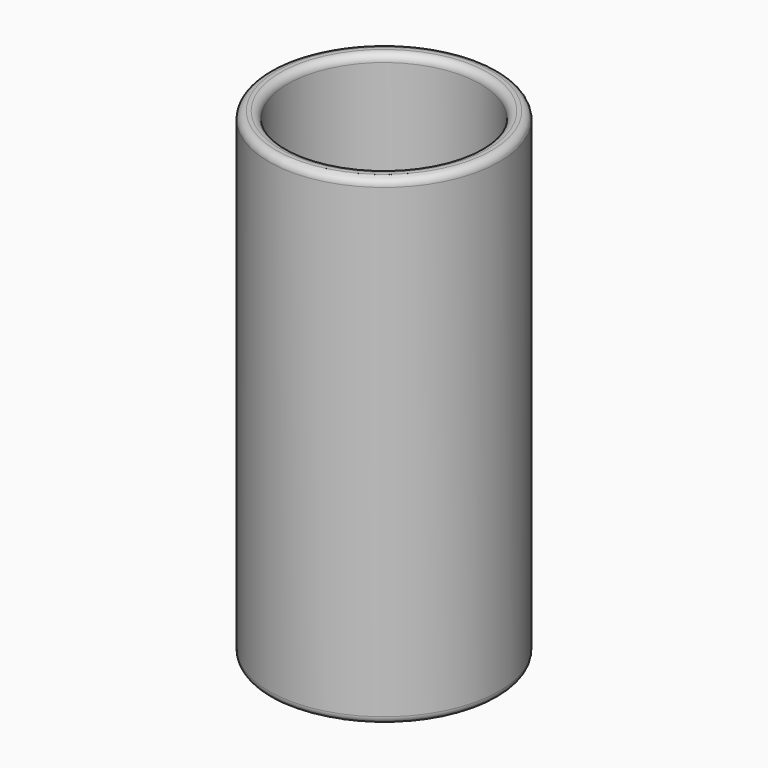
from build123d import *

# Parameters (mm, degrees)
F3_R = 2
F4_R = 2


with BuildPart() as f2:
    # F1 (on Front) → F2 (revolve)
    with BuildSketch(Plane.XZ):
        Polygon((25.4, 0), (0, 0), (0, -5), (25.4, -5), (25.4, -10), (30.4, -10), (30.4, 117), (25.4, 117), align=None)
    revolve(axis=Axis((0, 0, 13.367524), (0, 0, -1)))

    # F3
    f3_edges = [f2.edges().sort_by_distance(p)[0] for p in [
        (-30.4, 0, 117),
        (-25.4, 0, 117),
    ]]
    fillet(f3_edges, radius=F3_R)

    # F4
    f4_edges = [f2.edges().sort_by_distance(p)[0] for p in [
        (-25.4, 0, -10),
        (-30.4, 0, -10),
    ]]
    fillet(f4_edges, radius=F4_R)


solid = f2.part
